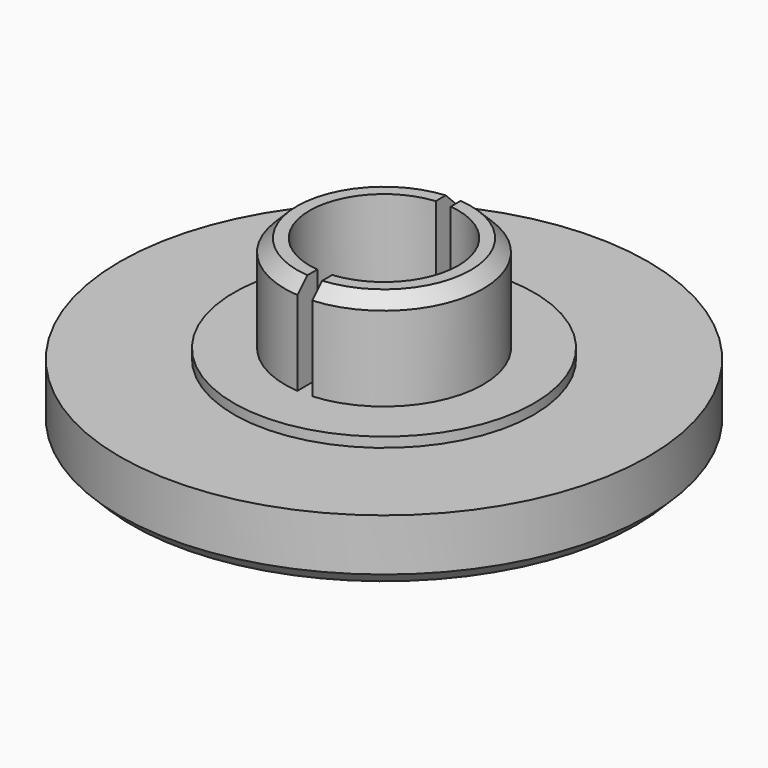
from build123d import *

# Parameters (mm, degrees)
F2_SIZE  = 0.5
F3_SIZE  = 0.5
F6_DEPTH = 3.9


with BuildPart() as f1:
    # F0 (on Front) → F1 (revolve)
    with BuildSketch(Plane.XZ):
        with BuildLine():
            add(Edge.make_bspline(
                [(1.5, 2.3895676483), (3.8476854245, 2.0883835805), (6.8060247503, 1.1954580218), (7.95, 0)],
                knots=[1.5645237171, 1.5645237171, 1.5645237171, 1.5645237171, 8.3338166527, 8.3338166527, 8.3338166527, 8.3338166527], degree=3))
            Line((7.95, 0), (10.65, 0))
            Line((10.65, 0), (10.65, 2.6))
            Line((10.65, 2.6), (6.05, 2.6))
            Line((6.05, 2.6), (6.05, 3))
            Line((6.05, 3), (4, 3))
            Line((4, 3), (4, 6.9))
            Line((4, 6.9), (0, 6.9))
            Line((0, 6.9), (0, 2.8895676483))
            Line((0, 2.8895676483), (1.5, 2.8895676483))
            Line((1.5, 2.8895676483), (1.5, 2.3895676483))
        make_face()
        with BuildLine():
            Line((0, 2.8895676483), (0, 2.5))
            add(Edge.make_bspline(
                [(0, 2.5), (0.4474217695, 2.4971784695), (0.9574013029, 2.4591775207), (1.5, 2.3895676483)],
                knots=[0, 0, 0, 0, 1.5645237171, 1.5645237171, 1.5645237171, 1.5645237171], degree=3))
            Line((1.5, 2.3895676483), (1.5, 2.8895676483))
            Line((1.5, 2.8895676483), (0, 2.8895676483))
        make_face()
    revolve(axis=Axis((0, 0, 3.45), (0, 0, -1)))

    # F2
    f2_edges = [f1.edges().sort_by_distance(p)[0] for p in [
        (-4, 0, 6.9),
    ]]
    chamfer(f2_edges, length=F2_SIZE)

    # F3
    f3_edges = [f1.edges().sort_by_distance(p)[0] for p in [
        (-10.65, 0, 0),
    ]]
    chamfer(f3_edges, length=F3_SIZE)

    # F5 (on offset) → F6 (cut)
    with BuildSketch(Plane.XY.offset(6.9)):
        with BuildLine():
            ThreePointArc((0.3, -2.9849623113), (2.2248595461, -2.0124611797), (3, 0))
            ThreePointArc((3, 0), (2.2248595461, 2.0124611797), (0.3, 2.9849623113))
            Line((0.3, 2.9849623113), (0.3, 0))
            Line((0.3, 0), (0.3, -2.9849623113))
        make_face()
        with BuildLine():
            Line((0.3, 0), (0.3, 2.9849623113))
            ThreePointArc((0.3, 2.9849623113), (0, 3), (-0.3, 2.9849623113))
            Line((-0.3, 2.9849623113), (-0.3, 0))
            Line((-0.3, 0), (0, 0))
            Line((0, 0), (0.3, 0))
        make_face()
        with BuildLine():
            ThreePointArc((-0.3, 2.9849623113), (0, 3), (0.3, 2.9849623113))
            Line((0.3, 2.9849623113), (0.3, 4.0277631488))
            Line((0.3, 4.0277631488), (-0.3, 4.0277631488))
            Line((-0.3, 4.0277631488), (-0.3, 2.9849623113))
        make_face()
        with BuildLine():
            Line((0.3, -4.2378189974), (0.3, -2.9849623113))
            ThreePointArc((0.3, -2.9849623113), (0, -3), (-0.3, -2.9849623113))
            Line((-0.3, -2.9849623113), (-0.3, -4.2378189974))
            Line((-0.3, -4.2378189974), (0.3, -4.2378189974))
        make_face()
        with BuildLine():
            ThreePointArc((-0.3, -2.9849623113), (0, -3), (0.3, -2.9849623113))
            Line((0.3, -2.9849623113), (0.3, 0))
            Line((0.3, 0), (0, 0))
            Line((0, 0), (-0.3, 0))
            Line((-0.3, 0), (-0.3, -2.9849623113))
        make_face()
        with BuildLine():
            Line((-0.3, 0), (-0.3, 2.9849623113))
            ThreePointArc((-0.3, 2.9849623113), (-3, 0), (-0.3, -2.9849623113))
            Line((-0.3, -2.9849623113), (-0.3, 0))
        make_face()
    extrude(amount=-F6_DEPTH, mode=Mode.SUBTRACT)


solid = f1.part
